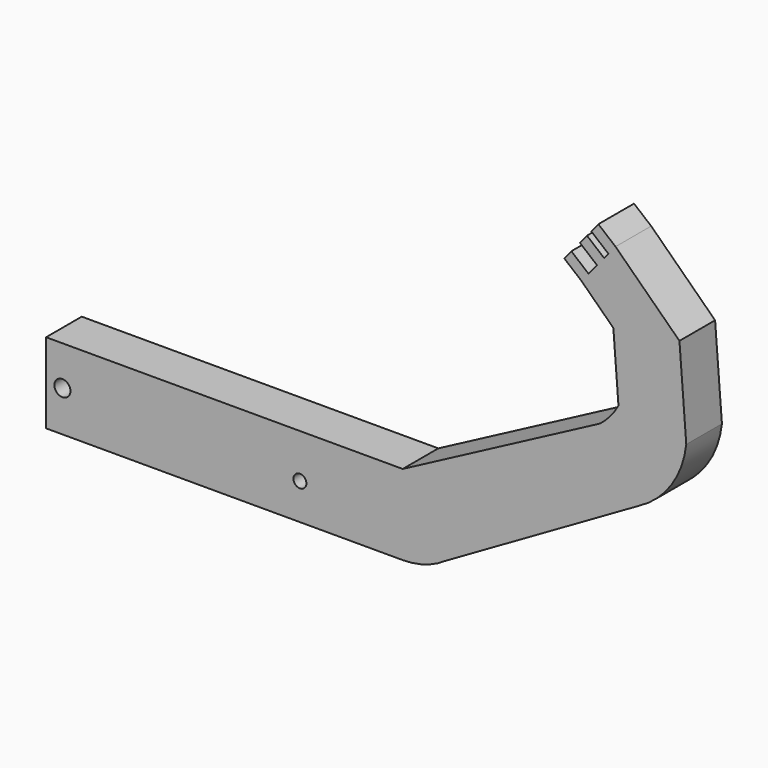
from build123d import *

# Parameters (mm, degrees)
F1_DEPTH = 5
F2_R     = 1.45235
F3_DEPTH = 26
F5_R     = 1.8
F6_DEPTH = 25


with BuildPart() as f1:
    # F0 (on Front) → F1 (new body, symmetric)
    with BuildSketch(Plane.XZ):
        Polygon((53.554079, -3.796815), (-20.445921, -3.796815), (-26.445921, -3.796815), (-26.445921, -21.796815), (-20.445921, -21.796815), (53.554079, -21.796815), align=None)
        with BuildLine():
            Line((97.775743, 19.536518), (53.554079, -3.796815))
            Line((53.554079, -3.796815), (53.554079, -21.796815))
            ThreePointArc((53.554079, -21.796815), (58.625986, -21.023499), (63.236974, -18.773824))
            Line((63.236974, -18.773824), (106.620076, 6.203185))
            Line((106.620076, 6.203185), (97.775743, 19.536518))
        make_face()
        with BuildLine():
            ThreePointArc((101.961013, 24.4677), (100.137325, 21.773844), (97.775743, 19.536518))
            Line((97.775743, 19.536518), (106.620076, 6.203185))
            ThreePointArc((106.620076, 6.203185), (113.834838, 12.659729), (117.171564, 21.748515))
            Line((117.171564, 21.748515), (115.640686, 41.689839))
            Line((115.640686, 41.689839), (100.812855, 39.423693))
            Line((100.812855, 39.423693), (101.961013, 24.4677))
        make_face()
        Polygon((93.643953, 46.395555), (100.812855, 39.423693), (115.640686, 41.689839), (101.302883, 55.633563), (99.707273, 53.708978), (98.743672, 52.546706), (97.148061, 50.622121), (95.239564, 48.32014), align=None)
        Polygon((89.794783, 49.586776), (93.643953, 46.395555), (95.239564, 48.32014), (91.390394, 51.511361), align=None)
        Polygon((99.707273, 53.708978), (101.302883, 55.633563), (97.453713, 58.824784), (95.858103, 56.900199), align=None)
        Polygon((93.298891, 53.813342), (97.148061, 50.622121), (98.743672, 52.546706), (94.894502, 55.737927), align=None)
    extrude(amount=F1_DEPTH, both=True)

    # F2 (on face) → F3 (cut)
    with BuildSketch(Plane.XZ.offset(5)):
        with Locations((30.503755, -13.683314)):
            Circle(F2_R)
    extrude(amount=-F3_DEPTH, mode=Mode.SUBTRACT)

    # F5 (on face) → F6 (cut)
    with BuildSketch(Plane.XZ.offset(5)):
        with Locations((-22.781451, -12.652125)):
            Circle(F5_R)
    extrude(amount=-F6_DEPTH, mode=Mode.SUBTRACT)


solid = f1.part
